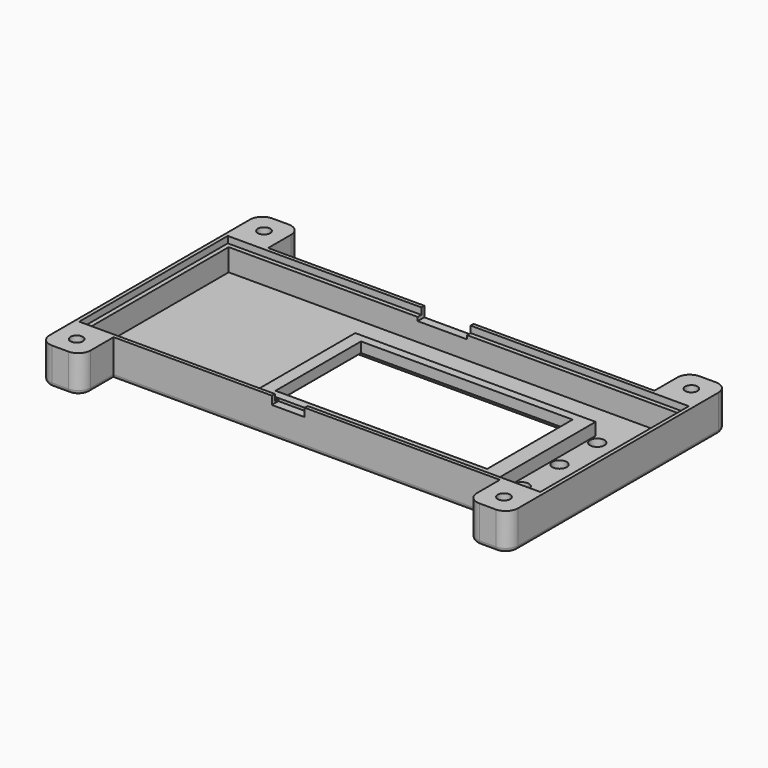
from build123d import *

# Parameters (mm, degrees)
SKETCH_W         = 114
SKETCH_H         = 47
PAD_DEPTH        = 9
THICKNESS_T      = -2
SKETCH004_W      = 10
SKETCH004_H      = 9
PAD001_DEPTH     = 10
SKETCH005_W      = 10
SKETCH005_H      = 9
PAD002_DEPTH     = 10
SKETCH006_W      = 112.2
SKETCH006_H      = 45.2
POCKET_DEPTH     = 1.6
SKETCH007_R      = 1.5
POCKET001_DEPTH  = 9
SKETCH008_W      = 51.5
SKETCH008_H      = 26
POCKET002_DEPTH  = 7
SKETCH009_W      = 58.5
SKETCH009_H      = 30
PAD003_DEPTH     = 3
SKETCH010_W      = 51.5
SKETCH010_H      = 26
POCKET003_DEPTH  = 3
SKETCH011_R      = 1.75
POCKET004_DEPTH  = 2
CHAMFER_SIZE     = 1
CHAMFER001_ANGLE = 45
CHAMFER001_SIZE  = 4
CHAMFER002_ANGLE = 40
CHAMFER002_SIZE  = 3
FILLET_R         = 3
FILLET001_R      = 3
FILLET002_R      = 1
FILLET003_R      = 1
FILLET004_R      = 1
SKETCH012_W      = 12
SKETCH012_H      = 2.5
POCKET005_DEPTH  = 2
SKETCH013_W      = 8
SKETCH013_H      = 2
POCKET006_DEPTH  = 2


with BuildPart() as part:
    # Sketch → Pad (new body)
    with BuildSketch(Plane.XY):
        Rectangle(SKETCH_W, SKETCH_H)
    extrude(amount=PAD_DEPTH)

    # Thickness
    thickness_openings = [part.faces().sort_by_distance(p)[0] for p in [
        (0, 0, 9),
    ]]
    offset(amount=THICKNESS_T, openings=thickness_openings)

    # Sketch004 → Pad001 (join)
    with BuildSketch(Plane.XZ.offset(23.5)):
        with Locations((-52, 4.5)):
            Rectangle(SKETCH004_W, SKETCH004_H)
        with Locations((52, 4.5)):
            Rectangle(SKETCH004_W, SKETCH004_H)
    extrude(amount=PAD001_DEPTH)

    # Sketch005 (on Face1 of Pad001) → Pad002 (join)
    with BuildSketch(Plane(origin=(0, 23.5, 0), x_dir=(-1, 0, 0), z_dir=(0, 1, 0))):
        with Locations((-52, 4.5)):
            Rectangle(SKETCH005_W, SKETCH005_H)
        with Locations((52, 4.5)):
            Rectangle(SKETCH005_W, SKETCH005_H)
    extrude(amount=PAD002_DEPTH)

    # Sketch006 (on Face12 of Pad002) → Pocket (cut)
    with BuildSketch(Plane.XY.offset(9)):
        Rectangle(SKETCH006_W, SKETCH006_H)
    extrude(amount=-POCKET_DEPTH, mode=Mode.SUBTRACT)

    # Sketch007 (on Face2 of Pocket) → Pocket001 (cut)
    with BuildSketch(Plane(origin=(0, 0, 0), x_dir=(1, 0, 0), z_dir=(0, 0, -1))):
        with Locations((-52, 28.5)):
            Circle(SKETCH007_R)
        with Locations((52, 28.5)):
            Circle(SKETCH007_R)
        with Locations((52, -28.5)):
            Circle(SKETCH007_R)
        with Locations((-52, -28.5)):
            Circle(SKETCH007_R)
    extrude(amount=-POCKET001_DEPTH, mode=Mode.SUBTRACT)

    # Sketch008 (on Face2 of Pocket001) → Pocket002 (cut)
    with BuildSketch(Plane(origin=(0, 0, 0), x_dir=(1, 0, 0), z_dir=(0, 0, -1))):
        with Locations((11.75, 2.5)):
            Rectangle(SKETCH008_W, SKETCH008_H)
    extrude(amount=-POCKET002_DEPTH, mode=Mode.SUBTRACT)

    # Sketch009 (on Face27 of Pocket002) → Pad003 (join)
    with BuildSketch(Plane.XY.offset(2)):
        with Locations((12.25, -2.5)):
            Rectangle(SKETCH009_W, SKETCH009_H)
    extrude(amount=PAD003_DEPTH)

    # Sketch010 (on Face38 of Pad003) → Pocket003 (cut)
    with BuildSketch(Plane.XY.offset(5)):
        with Locations((11.75, -2.5)):
            Rectangle(SKETCH010_W, SKETCH010_H)
    extrude(amount=-POCKET003_DEPTH, mode=Mode.SUBTRACT)

    # Sketch011 (on Face2 of Pocket003) → Pocket004 (cut)
    with BuildSketch(Plane(origin=(0, 0, 0), x_dir=(1, 0, 0), z_dir=(0, 0, -1))):
        with Locations((43.5, -10.5)):
            Circle(SKETCH011_R)
        with Locations((43.5, 1)):
            Circle(SKETCH011_R)
        with Locations((43.5, 12.5)):
            Circle(SKETCH011_R)
    extrude(amount=-POCKET004_DEPTH, mode=Mode.SUBTRACT)

    # Chamfer
    chamfer_edges = [part.edges().sort_by_distance(p)[0] for p in [
        (50.5, 28.5, 0),
        (50.5, -28.5, 0),
        (-53.5, -28.5, 0),
        (-53.5, 28.5, 0),
    ]]
    chamfer(chamfer_edges, length=CHAMFER_SIZE)

    # Chamfer001
    chamfer001_edges = [part.edges().sort_by_distance(p)[0] for p in [
        (37.5, -2.5, 0),
    ]]
    chamfer001_side = part.faces().sort_by_distance((48.177691, 28.5, 0))[0]
    chamfer(chamfer001_edges, length=CHAMFER001_SIZE, angle=CHAMFER001_ANGLE, reference=chamfer001_side)

    # Chamfer002
    chamfer002_edges = [part.edges().sort_by_distance(p)[0] for p in [
        (11.75, -15.5, 0),
        (-14, -2.5, 0),
        (11.75, 10.5, 0),
    ]]
    chamfer002_side = part.faces().sort_by_distance((39.5, 11.822309, 0))[0]
    chamfer(chamfer002_edges, length=CHAMFER002_SIZE, angle=CHAMFER002_ANGLE, reference=chamfer002_side)

    # Fillet
    fillet_edges = [part.edges().sort_by_distance(p)[0] for p in [
        (57, -33.5, 4.5),
        (47, -33.5, 4.5),
        (-47, -33.5, 4.5),
        (-57, -33.5, 4.5),
    ]]
    fillet(fillet_edges, radius=FILLET_R)

    # Fillet001
    fillet001_edges = [part.edges().sort_by_distance(p)[0] for p in [
        (-57, 33.5, 4.5),
        (-47, 33.5, 4.5),
        (47, 33.5, 4.5),
        (57, 33.5, 4.5),
    ]]
    fillet(fillet001_edges, radius=FILLET001_R)

    # Fillet002
    fillet002_edges = [part.edges().sort_by_distance(p)[0] for p in [
        (-47, 27, 0),
        (-47, -27, 0),
        (-57, 0, 0),
    ]]
    fillet(fillet002_edges, radius=FILLET002_R)

    # Fillet003
    fillet003_edges = [part.edges().sort_by_distance(p)[0] for p in [
        (47, 27, 0),
        (57, 0, 0),
        (47, -27, 0),
    ]]
    fillet(fillet003_edges, radius=FILLET003_R)

    # Fillet004
    fillet004_edges = [part.edges().sort_by_distance(p)[0] for p in [
        (0, 23.5, 0),
        (0, -23.5, 0),
    ]]
    fillet(fillet004_edges, radius=FILLET004_R)

    # Sketch012 (on Face33 of Fillet004) → Pocket005 (cut)
    with BuildSketch(Plane(origin=(0, 23.5, 0), x_dir=(-1, 0, 0), z_dir=(0, 1, 0))):
        with Locations((3, 7.75)):
            Rectangle(SKETCH012_W, SKETCH012_H)
    extrude(amount=-POCKET005_DEPTH, mode=Mode.SUBTRACT)

    # Sketch013 (on Face49 of Pocket005) → Pocket006 (cut)
    with BuildSketch(Plane.XZ.offset(23.5)):
        with Locations((-4.5, 8)):
            Rectangle(SKETCH013_W, SKETCH013_H)
    extrude(amount=-POCKET006_DEPTH, mode=Mode.SUBTRACT)


solid = part.part
